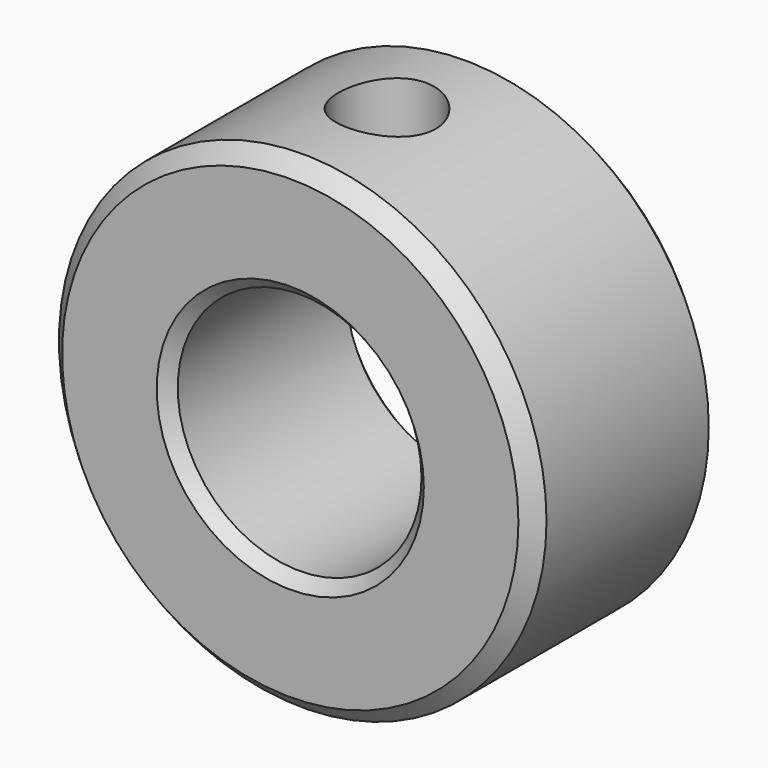
from build123d import *

# Parameters (mm, degrees)
F0_R     = 15.875
F0_R_2   = 7.9375
F1_DEPTH = 15.24
F2_SIZE  = 1.016
F3_SIZE  = 0.762
F5_R     = 3.175
F6_DEPTH = 14.224


with BuildPart() as f1:
    # F0 (on Front) → F1 (new body)
    with BuildSketch(Plane.XZ):
        Circle(F0_R)
        Circle(F0_R_2, mode=Mode.SUBTRACT)
    extrude(amount=F1_DEPTH)

    # F2
    f2_edges = [f1.edges().sort_by_distance(p)[0] for p in [
        (-15.875, -15.24, 0),
        (-15.875, 0, 0),
    ]]
    chamfer(f2_edges, length=F2_SIZE)

    # F3
    f3_edges = [f1.edges().sort_by_distance(p)[0] for p in [
        (-7.9375, -15.24, 0),
        (-7.9375, 0, 0),
    ]]
    chamfer(f3_edges, length=F3_SIZE)

    # F5 (on offset) → F6 (cut)
    with BuildSketch(Plane.XY.offset(15.875)):
        with Locations((0, -7.366)):
            Circle(F5_R)
    extrude(amount=-F6_DEPTH, mode=Mode.SUBTRACT)


solid = f1.part
